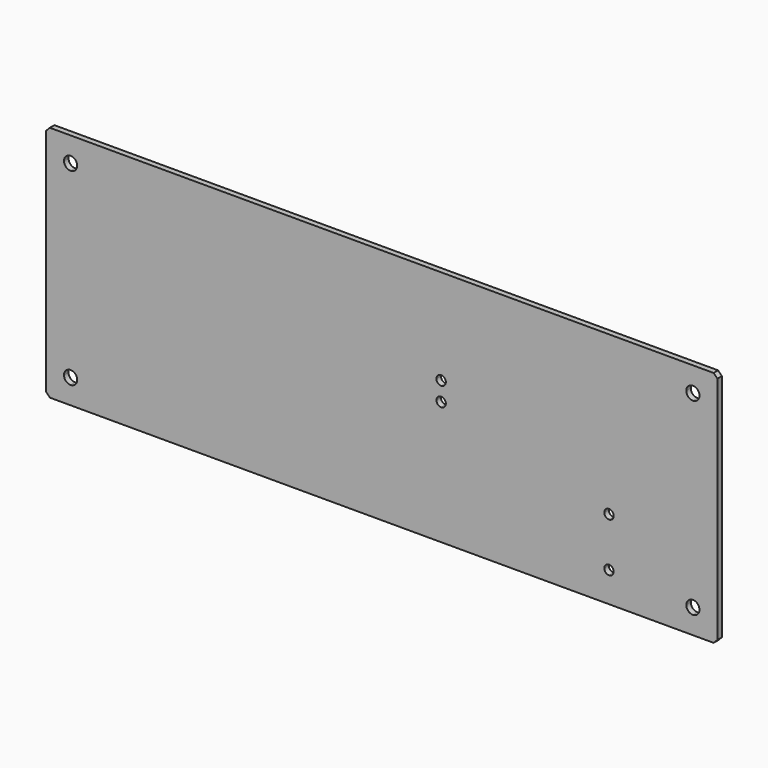
from build123d import *

# Parameters (mm, degrees)
F1_DEPTH = 3


with BuildPart() as f1:
    # F0 (on Front) → F1 (new body)
    with BuildSketch(Plane.XZ):
        Polygon((-496.631157, -252.418975), (-144.631157, -252.418975), (-142.631157, -250.418975), (-142.631157, -128.418975), (-144.631157, -126.418975), (-496.631157, -126.418975), (-498.631157, -128.418975), (-498.631157, -250.418975), align=None)
        with BuildLine():
            ThreePointArc((-485.631157, -235.918975), (-483.156283, -236.944101), (-482.131157, -239.418975))
            ThreePointArc((-482.131157, -239.418975), (-483.156283, -241.893849), (-485.631157, -242.918975))
            ThreePointArc((-485.631157, -242.918975), (-488.106031, -241.893849), (-489.131157, -239.418975))
            ThreePointArc((-489.131157, -239.418975), (-488.106031, -236.944101), (-485.631157, -235.918975))
        make_face(mode=Mode.SUBTRACT)
        with BuildLine():
            ThreePointArc((-155.631157, -235.918975), (-153.156283, -236.944101), (-152.131157, -239.418975))
            ThreePointArc((-152.131157, -239.418975), (-153.156283, -241.893849), (-155.631157, -242.918975))
            ThreePointArc((-155.631157, -242.918975), (-158.106031, -241.893849), (-159.131157, -239.418975))
            ThreePointArc((-159.131157, -239.418975), (-158.106031, -236.944101), (-155.631157, -235.918975))
        make_face(mode=Mode.SUBTRACT)
        with BuildLine():
            ThreePointArc((-197.631157, -236.418975), (-198.36339, -238.186742), (-200.131157, -238.918975))
            ThreePointArc((-200.131157, -238.918975), (-201.898924, -238.186742), (-202.631157, -236.418975))
            ThreePointArc((-202.631157, -236.418975), (-201.898924, -234.651208), (-200.131157, -233.918975))
            ThreePointArc((-200.131157, -233.918975), (-198.36339, -234.651208), (-197.631157, -236.418975))
        make_face(mode=Mode.SUBTRACT)
        with BuildLine():
            ThreePointArc((-197.631157, -210.418975), (-198.36339, -212.186742), (-200.131157, -212.918975))
            ThreePointArc((-200.131157, -212.918975), (-201.898924, -212.186742), (-202.631157, -210.418975))
            ThreePointArc((-202.631157, -210.418975), (-201.898924, -208.651208), (-200.131157, -207.918975))
            ThreePointArc((-200.131157, -207.918975), (-198.36339, -208.651208), (-197.631157, -210.418975))
        make_face(mode=Mode.SUBTRACT)
        with BuildLine():
            ThreePointArc((-286.631157, -186.918975), (-287.36339, -188.686742), (-289.131157, -189.418975))
            ThreePointArc((-289.131157, -189.418975), (-290.898924, -188.686742), (-291.631157, -186.918975))
            ThreePointArc((-291.631157, -186.918975), (-290.898924, -185.151208), (-289.131157, -184.418975))
            ThreePointArc((-289.131157, -184.418975), (-287.36339, -185.151208), (-286.631157, -186.918975))
        make_face(mode=Mode.SUBTRACT)
        with BuildLine():
            ThreePointArc((-286.631157, -176.918975), (-287.36339, -178.686742), (-289.131157, -179.418975))
            ThreePointArc((-289.131157, -179.418975), (-290.898924, -178.686742), (-291.631157, -176.918975))
            ThreePointArc((-291.631157, -176.918975), (-290.898924, -175.151208), (-289.131157, -174.418975))
            ThreePointArc((-289.131157, -174.418975), (-287.36339, -175.151208), (-286.631157, -176.918975))
        make_face(mode=Mode.SUBTRACT)
        with BuildLine():
            ThreePointArc((-485.631157, -135.918975), (-483.156283, -136.944101), (-482.131157, -139.418975))
            ThreePointArc((-482.131157, -139.418975), (-483.156283, -141.893849), (-485.631157, -142.918975))
            ThreePointArc((-485.631157, -142.918975), (-488.106031, -141.893849), (-489.131157, -139.418975))
            ThreePointArc((-489.131157, -139.418975), (-488.106031, -136.944101), (-485.631157, -135.918975))
        make_face(mode=Mode.SUBTRACT)
        with BuildLine():
            ThreePointArc((-155.631157, -135.918975), (-153.156283, -136.944101), (-152.131157, -139.418975))
            ThreePointArc((-152.131157, -139.418975), (-153.156283, -141.893849), (-155.631157, -142.918975))
            ThreePointArc((-155.631157, -142.918975), (-158.106031, -141.893849), (-159.131157, -139.418975))
            ThreePointArc((-159.131157, -139.418975), (-158.106031, -136.944101), (-155.631157, -135.918975))
        make_face(mode=Mode.SUBTRACT)
    extrude(amount=F1_DEPTH)


solid = f1.part
